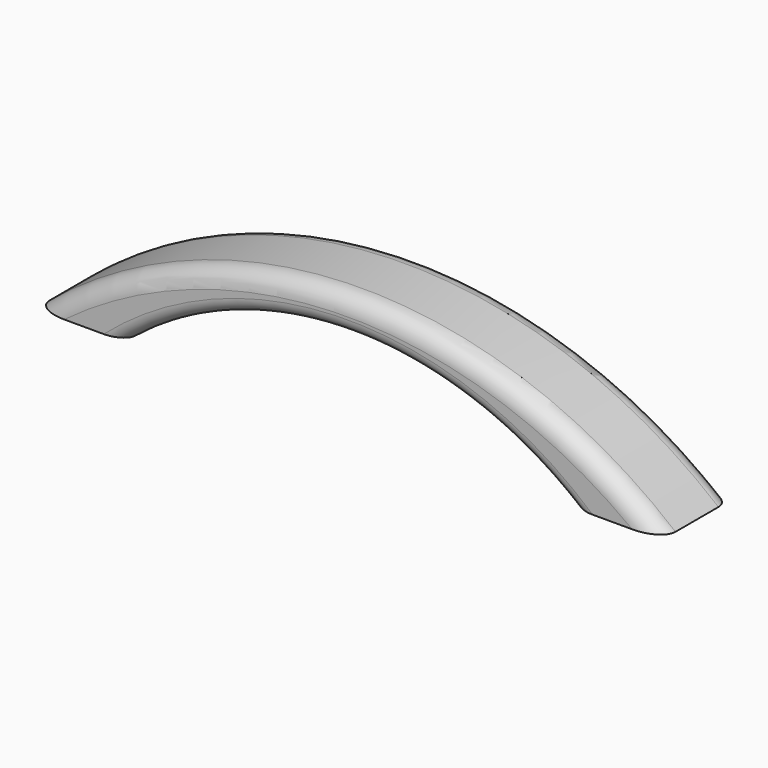
from build123d import *

# Parameters (mm, degrees)
PAD_DEPTH   = 20
FILLET_R    = 4
FILLET001_R = 4
FILLET002_R = 3
FILLET003_R = 3


with BuildPart() as part:
    # Sketch → Pad (new body)
    with BuildSketch(Plane.XZ):
        with BuildLine():
            ThreePointArc((50, 0), (0, 17.55002), (-50, 0))
            Line((-70, 0), (-50, 0))
            ThreePointArc((70, 0), (0, 25.147186), (-70, 0))
            Line((50, 0), (70, 0))
        make_face()
    extrude(amount=PAD_DEPTH)

    # Fillet
    fillet_edges = [part.edges().sort_by_distance(p)[0] for p in [
        (0, -20, 25.147186),
    ]]
    fillet(fillet_edges, radius=FILLET_R)

    # Fillet001
    fillet001_edges = [part.edges().sort_by_distance(p)[0] for p in [
        (0, 0, 25.147186),
    ]]
    fillet(fillet001_edges, radius=FILLET001_R)

    # Fillet002
    fillet002_edges = [part.edges().sort_by_distance(p)[0] for p in [
        (0, 0, 17.55002),
    ]]
    fillet(fillet002_edges, radius=FILLET002_R)

    # Fillet003
    fillet003_edges = [part.edges().sort_by_distance(p)[0] for p in [
        (0, -20, 17.55002),
    ]]
    fillet(fillet003_edges, radius=FILLET003_R)


solid = part.part
